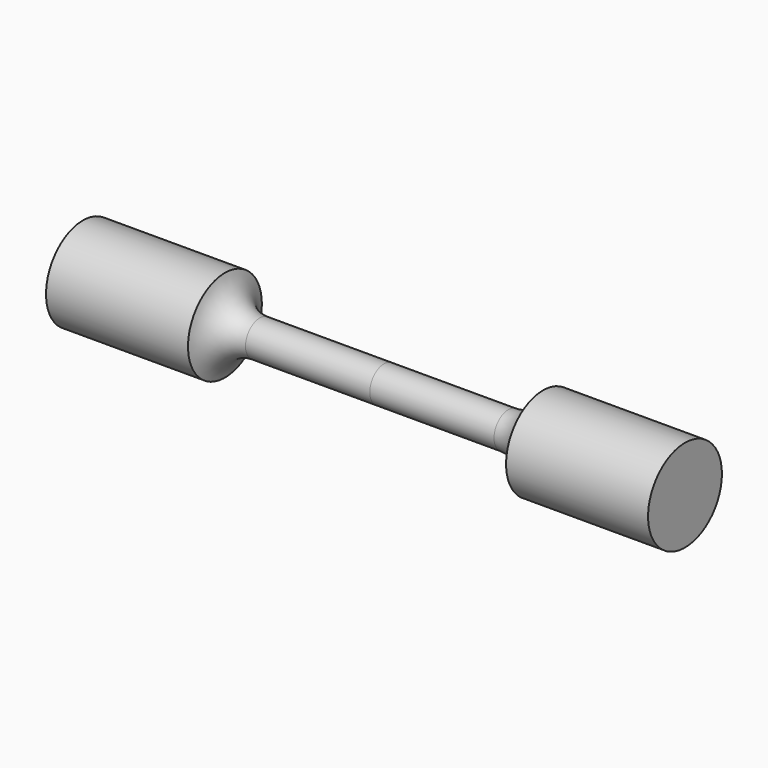
from build123d import *


with BuildPart() as part:
    # Sketch → Revolution (revolve)
    with BuildSketch(Plane.XY):
        with BuildLine():
            Line((-42.398979, 6.5), (-42.398979, 0))
            Line((0, 0), (-42.398979, 0))
            Line((0, 2.5), (0, 0))
            Line((-17.5, 2.5), (0, 2.5))
            ThreePointArc((-22.398979, 6.5), (-20.662278, 3.627017), (-17.5, 2.5))
            Line((-42.398979, 6.5), (-22.398979, 6.5))
        make_face()
    revolution = revolve(axis=Axis((0, 0, 0), (1, 0, 0)))

    # Mirrored: Revolution across Sketch V_Axis
    add(revolution.mirror(Plane(origin=(0, 0, 0), x_dir=(0, 0, 1), z_dir=(1, 0, 0))))


solid = part.part
